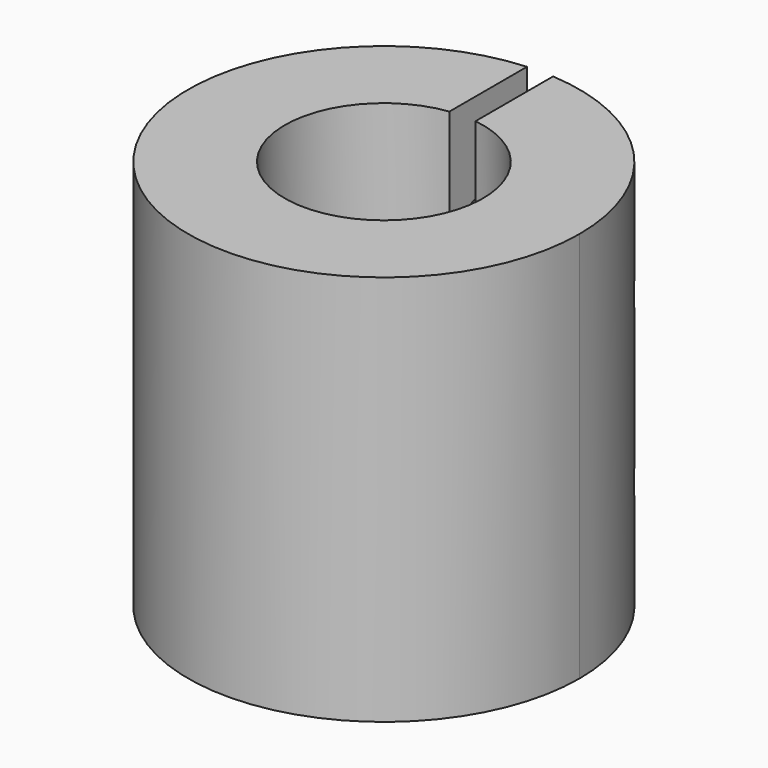
from build123d import *

# Parameters (mm, degrees)
F0_R      = 15
F1_DEPTH  = 30
F2_R      = 7.6
F3_DEPTH  = 15
F4_R      = 3.1
F5_DEPTH  = 25.4
F7_DEPTH  = 50.8
F9_DEPTH  = 15.001
F10_R     = 1.8
F11_DEPTH = 25.4


with BuildPart() as f1:
    # F0 (on Top) → F1 (new body)
    with BuildSketch(Plane.XY):
        Circle(F0_R)
    extrude(amount=F1_DEPTH)

    # F2 (on face) → F3 (cut)
    with BuildSketch(Plane.XY.offset(30)):
        Circle(F2_R)
    extrude(amount=-F3_DEPTH, mode=Mode.SUBTRACT)

    # F4 (on face) → F5 (cut)
    with BuildSketch(Plane(origin=(0, 0, 0), x_dir=(1, 0, 0), z_dir=(0, 0, -1))):
        Circle(F4_R)
    extrude(amount=-F5_DEPTH, mode=Mode.SUBTRACT)

    # F6 (on face) → F7 (cut)
    with BuildSketch(Plane(origin=(0, 0, 0), x_dir=(1, 0, 0), z_dir=(0, 0, -1))):
        with BuildLine():
            Line((-1, -14.9666295471), (-1, -19.5340905339))
            Line((-1, -19.5340905339), (1, -19.5340905339))
            Line((1, -19.5340905339), (1, -14.9666295471))
            ThreePointArc((1, -14.9666295471), (0, -15), (-1, -14.9666295471))
        make_face()
        with BuildLine():
            Line((-1, 0), (-1, -2.9342801502))
            ThreePointArc((-1, -2.9342801502), (0, -3.1), (1, -2.9342801502))
            Line((1, -2.9342801502), (1, 0))
            Line((1, 0), (-1, 0))
        make_face()
        with BuildLine():
            Line((-1, -2.9342801502), (-1, -14.9666295471))
            ThreePointArc((-1, -14.9666295471), (0, -15), (1, -14.9666295471))
            Line((1, -14.9666295471), (1, -2.9342801502))
            ThreePointArc((1, -2.9342801502), (0, -3.1), (-1, -2.9342801502))
        make_face()
    extrude(amount=-F7_DEPTH, mode=Mode.SUBTRACT)

    # F8 (on Right) → F9 (cut, through all)
    with BuildSketch(Plane.YZ):
        with BuildLine():
            Line((10.4761691764, 8.6763631552), (10.4761691764, 6.8763631552))
            ThreePointArc((10.4761691764, 6.8763631552), (11.7489613825, 7.4035709491), (12.2761691764, 8.6763631552))
            ThreePointArc((12.2761691764, 8.6763631552), (11.7489613825, 9.9491553614), (10.4761691764, 10.4763631552))
            Line((10.4761691764, 10.4763631552), (10.4761691764, 8.6763631552))
        make_face()
        with BuildLine():
            ThreePointArc((10.4761691764, 10.4763631552), (9.2033769703, 9.9491553614), (8.6761691764, 8.6763631552))
            Line((8.6761691764, 8.6763631552), (10.4761691764, 8.6763631552))
            Line((10.4761691764, 8.6763631552), (10.4761691764, 10.4763631552))
        make_face()
        with BuildLine():
            ThreePointArc((8.6761691764, 8.6763631552), (9.2033769703, 7.4035709491), (10.4761691764, 6.8763631552))
            Line((10.4761691764, 6.8763631552), (10.4761691764, 8.6763631552))
            Line((10.4761691764, 8.6763631552), (8.6761691764, 8.6763631552))
        make_face()
        with BuildLine():
            ThreePointArc((12.2761691764, 21.3597174734), (9.2033769703, 22.6325096795), (10.4761691764, 19.5597174734))
            ThreePointArc((10.4761691764, 19.5597174734), (11.7489613825, 20.0869252673), (12.2761691764, 21.3597174734))
        make_face()
    extrude(amount=-F9_DEPTH, mode=Mode.SUBTRACT)

    # F10 (on face) → F11 (cut)
    with BuildSketch(Plane.YZ.offset(-1)):
        with Locations((10.4761691764, 8.6763631552)):
            Circle(F10_R)
        with Locations((10.4761691764, 21.3597174734)):
            Circle(F10_R)
    extrude(amount=F11_DEPTH, mode=Mode.SUBTRACT)


solid = f1.part
